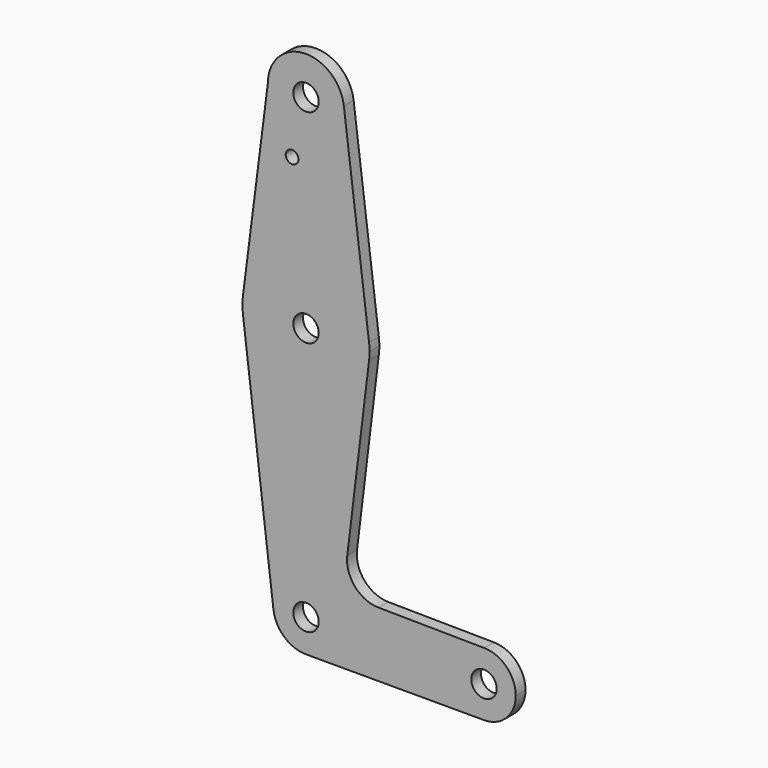
from build123d import *

# Parameters (mm, degrees)
F0_R     = 3.175
F0_R_2   = 1.5875
F1_DEPTH = 3.048


with BuildPart() as f1:
    # F0 (on Front) → F1 (new body)
    with BuildSketch(Plane.XZ):
        with BuildLine():
            ThreePointArc((-9.5248581599, 83.2599219897), (0.0259906378, 73.786938532), (9.525, 83.3119030719))
            ThreePointArc((9.525, 83.3119030719), (9.5063041404, 83.9083983282), (9.4502899547, 84.502551959))
            ThreePointArc((9.4502899547, 84.502551959), (-0.6224326586, 92.8165441795), (-9.5248581599, 83.2599219897))
        make_face()
        with Locations((0, 83.3119030719)):
            Circle(F0_R, mode=Mode.SUBTRACT)
        with BuildLine():
            ThreePointArc((9.4502899547, 84.502551959), (9.5063041404, 83.9083983282), (9.525, 83.3119030719))
            ThreePointArc((9.525, 83.3119030719), (0.0259906378, 73.786938532), (-9.5248581599, 83.2599219897))
            Line((-9.5248581599, 83.2599219897), (-15.7471769435, 34.5234055887))
            ThreePointArc((-15.7471769435, 34.5234055887), (0.0131386883, 48.3879167992), (15.7504832578, 34.4973370481))
            Line((15.7504832578, 34.4973370481), (9.4502899547, 84.502551959))
        make_face()
        with Locations((-3.4761622082, 69.0381222362)):
            Circle(F0_R_2, mode=Mode.SUBTRACT)
        with BuildLine():
            Line((15.7504832578, 30.5285074243), (15.7504832578, 34.4973370481))
            ThreePointArc((15.7504832578, 34.4973370481), (0.0131386883, 48.3879167992), (-15.7471769435, 34.5234055887))
            Line((-15.7471769435, 34.5234055887), (-15.7471769435, 30.5024388837))
            ThreePointArc((-15.7471769435, 30.5024388837), (0.0131386883, 16.6379276732), (15.7504832578, 30.5285074243))
        make_face()
        with Locations((0, 32.5129222362)):
            Circle(F0_R, mode=Mode.SUBTRACT)
        with BuildLine():
            ThreePointArc((15.875, 32.5129222362), (15.8438402339, 33.5070809968), (15.7504832578, 34.4973370481))
            Line((15.7504832578, 34.4973370481), (15.7504832578, 30.5285074243))
            ThreePointArc((15.7504832578, 30.5285074243), (15.8438402339, 31.5187634756), (15.875, 32.5129222362))
        make_face()
        with BuildLine():
            Line((-15.7471769435, 30.5024388837), (-15.7471769435, 34.5234055887))
            ThreePointArc((-15.7471769435, 34.5234055887), (-15.875, 32.5129222362), (-15.7471769435, 30.5024388837))
        make_face()
        with BuildLine():
            Line((10.3100811991, -14.091878104), (15.7504832578, 30.5285074243))
            ThreePointArc((15.7504832578, 30.5285074243), (0.0131386883, 16.6379276732), (-15.7471769435, 30.5024388837))
            Line((-15.7471769435, 30.5024388837), (-8.1291402981, -31.9792369364))
            ThreePointArc((-8.1291402981, -31.9792369364), (-0.4964832457, -22.813821126), (8.1893394424, -30.9880969281))
            ThreePointArc((8.1893394424, -30.9880969281), (5.7907374532, -36.7788343813), (0, -39.1774363705))
            Line((0, -39.1774363705), (44.45, -39.1774363705))
            ThreePointArc((44.45, -39.1774363705), (36.5126271282, -31.1950126056), (44.5398460907, -23.3029448794))
            Line((44.5398460907, -23.3029448794), (18.1118481639, -23.003782117))
            ThreePointArc((18.1118481639, -23.003782117), (12.2199839317, -20.2907985961), (10.3100811991, -14.091878104))
        make_face()
        with BuildLine():
            ThreePointArc((8.1893394424, -30.9880969281), (-0.4964832457, -22.813821126), (-8.1291402981, -31.9792369364))
            ThreePointArc((-8.1291402981, -31.9792369364), (-5.4290191812, -37.1192494489), (0, -39.1774363705))
            ThreePointArc((0, -39.1774363705), (5.7907374532, -36.7788343813), (8.1893394424, -30.9880969281))
        make_face()
        with Locations((0, -30.9880969281)):
            Circle(F0_R, mode=Mode.SUBTRACT)
        with BuildLine():
            ThreePointArc((52.3875, -31.2399363705), (50.0943360812, -25.6591320869), (44.5398460907, -23.3029448794))
            ThreePointArc((44.5398460907, -23.3029448794), (36.5126271282, -31.1950126056), (44.45, -39.1774363705))
            ThreePointArc((44.45, -39.1774363705), (50.0626600757, -36.8525964462), (52.3875, -31.2399363705))
        make_face()
        with Locations((44.45, -31.2399363705)):
            Circle(F0_R, mode=Mode.SUBTRACT)
    extrude(amount=F1_DEPTH)


solid = f1.part
